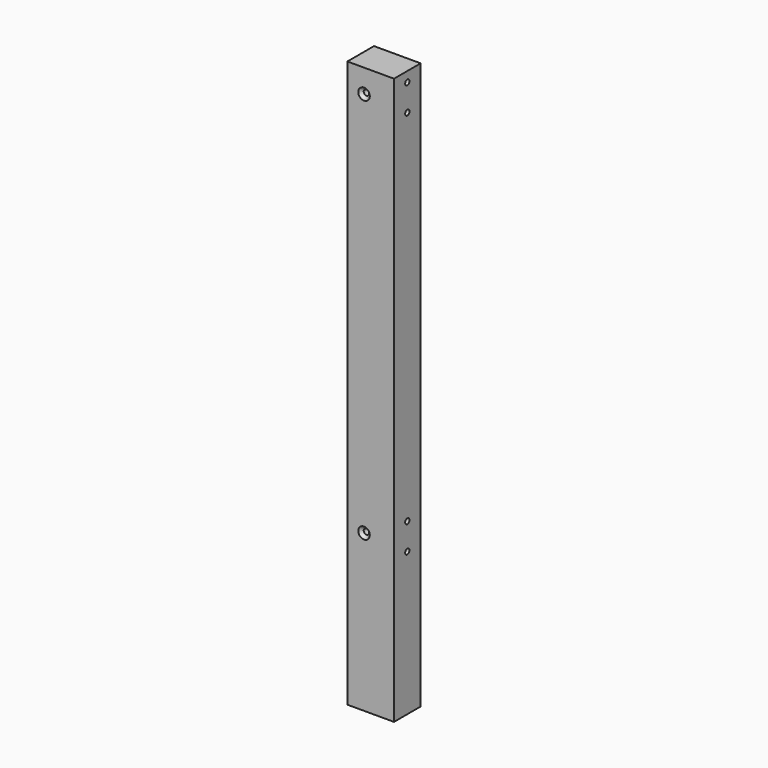
from build123d import *

# Parameters (mm, degrees)
F0_W           = 70
F0_H           = 50
F1_DEPTH       = 850
F3_D           = 8
F3_DEPTH       = 22
F3_TIP         = 2.4034424761
F5_D           = 8.2
F5_CSINK_D     = 17.3
F5_CSINK_ANGLE = 90


with BuildPart() as f1:
    # F0 (on Top) → F1 (new body)
    with BuildSketch(Plane.XY):
        Rectangle(F0_W, F0_H)
    extrude(amount=F1_DEPTH)

    # F3
    with Locations(Plane.YZ.offset(35)):
        with Locations((0, 215), (0, 255), (0, 795), (0, 835)):
            Hole(F3_D / 2, depth=F3_DEPTH)
            with Locations((0, 0, -(F3_DEPTH + F3_TIP / 2))):  # 118° drill point
                Cone(0, F3_D / 2, F3_TIP, mode=Mode.SUBTRACT)

    # F5 (through all)
    with Locations(Plane.XZ.offset(25)):
        with Locations((-10, 235), (-10, 815)):
            CounterSinkHole(F5_D / 2, F5_CSINK_D / 2, counter_sink_angle=F5_CSINK_ANGLE)


solid = f1.part
